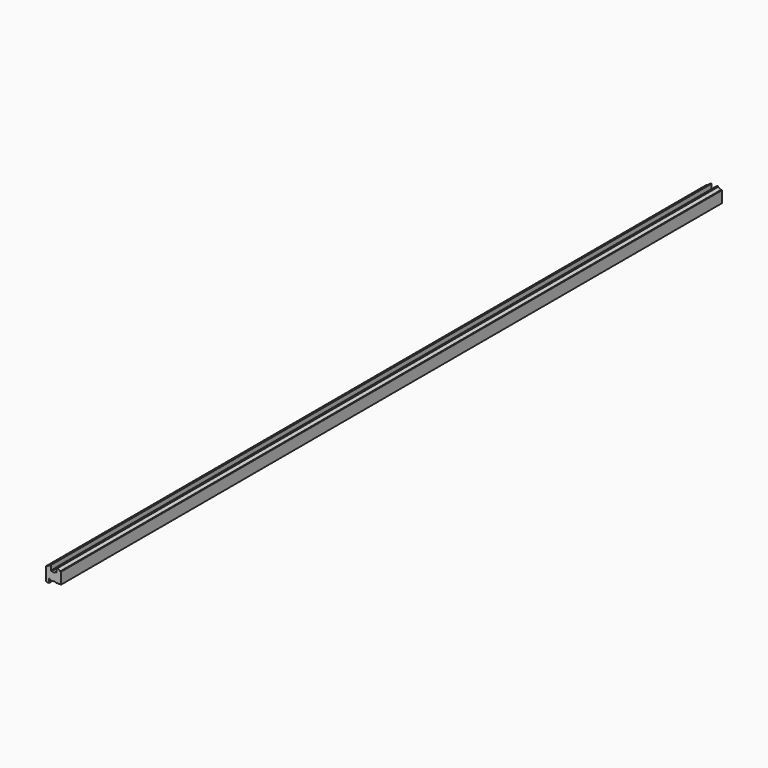
from build123d import *

# Parameters (mm, degrees)
F1_DEPTH = 2438.4


with BuildPart() as f1:
    # F0 (on Front) → F1 (new body)
    with BuildSketch(Plane.XZ):
        with BuildLine():
            Line((-43.082141, 0), (-39.624, 0))
            Line((-39.624, 0), (-39.624, 0.4064))
            Line((-39.624, 0.4064), (-35.3568, 0.4064))
            Line((-35.3568, 0.4064), (-35.3568, 7.4803))
            Line((-35.3568, 7.4803), (-35.3568, 11.827137))
            Line((-35.3568, 11.827137), (-33.187479, 11.827137))
            Line((-33.187479, 11.827137), (-33.187479, 7.4803))
            Line((-33.187479, 7.4803), (-28.956, 7.4803))
            Line((-28.956, 7.4803), (-28.956, 9.0043))
            Line((-28.956, 9.0043), (-16.256, 9.0043))
            Line((-16.256, 9.0043), (-16.256, 7.4803))
            Line((-16.256, 7.4803), (0, 7.4803))
            Line((0, 7.4803), (0, 41.2115))
            Line((0, 41.2115), (-2.6162, 41.2115))
            ThreePointArc((-2.6162, 41.2115), (-6.714233, 44.324588), (-11.5443, 46.101))
            Line((-11.5443, 46.101), (-11.5443, 48.4124))
            Line((-11.5443, 48.4124), (-13.97, 48.4124))
            Line((-13.97, 48.4124), (-13.97, 34.0614))
            Line((-13.97, 34.0614), (-17.713407, 34.0614))
            ThreePointArc((-17.713407, 34.0614), (-22.225, 32.17996), (-26.736593, 34.0614))
            Line((-26.736593, 34.0614), (-30.48, 34.0614))
            Line((-30.48, 34.0614), (-30.48, 48.4124))
            Line((-30.48, 48.4124), (-32.9057, 48.4124))
            Line((-32.9057, 48.4124), (-32.9057, 46.1264))
            ThreePointArc((-32.9057, 46.1264), (-37.737227, 44.336486), (-41.8338, 41.2115))
            Line((-41.8338, 41.2115), (-44.45, 41.2115))
            Line((-44.45, 41.2115), (-44.45, 1.50266))
            Line((-44.45, 1.50266), (-43.082141, 0))
        make_face()
    extrude(amount=F1_DEPTH)


solid = f1.part
